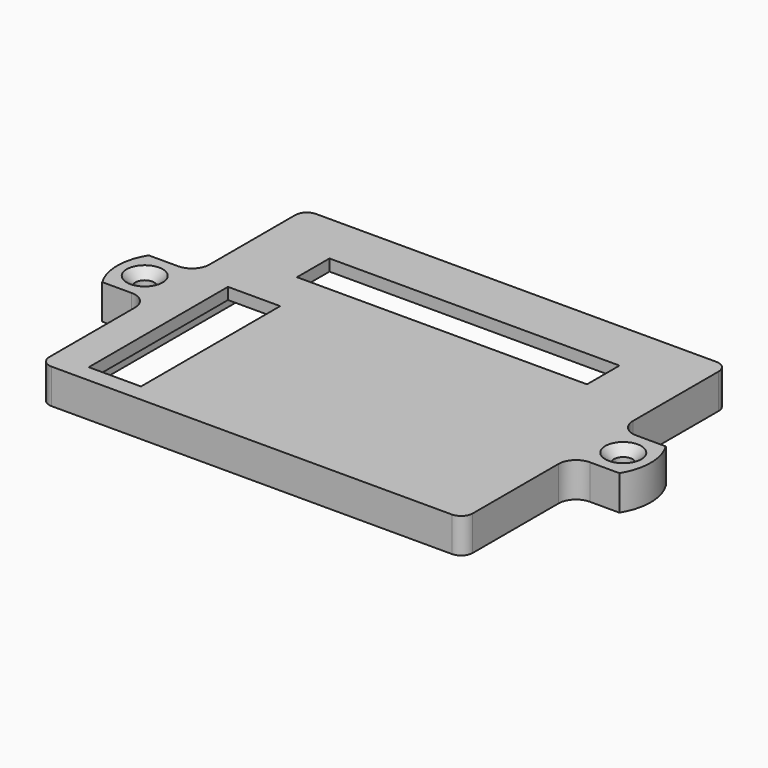
from build123d import *

# Parameters (mm, degrees)
F0_W     = 50
F0_H     = 7
F0_R     = 1.6
F1_DEPTH = 2
F2_DEPTH = 4
F3_SIZE  = 1.5
F4_R     = 3
F5_R     = 2


with BuildPart() as f1:
    # F0 (on Top) → F1 (new body)
    with BuildSketch(Plane.XY):
        with BuildLine():
            Line((-36.5, -5), (-36.5, 5))
            Line((-36.5, 5), (-44.577747, 5))
            ThreePointArc((-44.577747, 5), (-46, 0), (-44.577747, -5))
            Line((-44.577747, -5), (-36.5, -5))
        make_face()
        Polygon((-38.5, 1.587713), (-38.5, -1.587713), (-41.25, -3.175426), (-44, -1.587713), (-44, 1.587713), (-41.25, 3.175426), align=None, mode=Mode.SUBTRACT)
        Polygon((36.5, 28.5), (-36.5, 28.5), (-36.5, 5), (-36.5, -5), (-36.5, -28.5), (36.5, -28.5), (36.5, -5), (36.5, 5), align=None)
        Polygon((-34, 21.050253), (-34, 26), (-29.050253, 26), (29.050253, 26), (34, 26), (34, 21.050253), (34, -21.050253), (34, -26), (29.050253, -26), (-29.050253, -26), (-34, -26), (-34, -21.050253), align=None, mode=Mode.SUBTRACT)
        Polygon((29.050253, 26), (-29.050253, 26), (-34, 21.050253), (-34, -21.050253), (-30.5, -24.550253), (-30.5, 4.5), (-21.5, 4.5), (-21.5, -25.5), (-29.550253, -25.5), (-29.050253, -26), (29.050253, -26), (34, -21.050253), (34, 21.050253), align=None)
        with Locations((0, 16)):
            Rectangle(F0_W, F0_H, mode=Mode.SUBTRACT)
        with BuildLine():
            Line((44.577747, 5), (36.5, 5))
            Line((36.5, 5), (36.5, -5))
            Line((36.5, -5), (44.577747, -5))
            ThreePointArc((44.577747, -5), (46, 0), (44.577747, 5))
        make_face()
        Polygon((41.25, -3.175426), (38.5, -1.587713), (38.5, 1.587713), (41.25, 3.175426), (44, 1.587713), (44, -1.587713), align=None, mode=Mode.SUBTRACT)
        Polygon((-41.25, -3.175426), (-38.5, -1.587713), (-38.5, 1.587713), (-41.25, 3.175426), (-44, 1.587713), (-44, -1.587713), align=None)
        with Locations((-41.25, 0)):
            Circle(F0_R, mode=Mode.SUBTRACT)
        Polygon((38.5, 1.587713), (38.5, -1.587713), (41.25, -3.175426), (44, -1.587713), (44, 1.587713), (41.25, 3.175426), align=None)
        with Locations((41.25, 0)):
            Circle(F0_R, mode=Mode.SUBTRACT)
        Polygon((34, 26), (29.050253, 26), (34, 21.050253), align=None)
        Polygon((-29.050253, 26), (-34, 26), (-34, 21.050253), align=None)
        Polygon((-30.5, -24.550253), (-34, -21.050253), (-34, -26), (-29.050253, -26), (-29.550253, -25.5), (-30.5, -25.5), align=None)
        Polygon((34, -26), (34, -21.050253), (29.050253, -26), align=None)
    extrude(amount=F1_DEPTH)

    # F0 (on Top) → F2 (join)
    with BuildSketch(Plane.XY):
        Polygon((36.5, 28.5), (-36.5, 28.5), (-36.5, 5), (-36.5, -5), (-36.5, -28.5), (36.5, -28.5), (36.5, -5), (36.5, 5), align=None)
        Polygon((-34, 21.050253), (-34, 26), (-29.050253, 26), (29.050253, 26), (34, 26), (34, 21.050253), (34, -21.050253), (34, -26), (29.050253, -26), (-29.050253, -26), (-34, -26), (-34, -21.050253), align=None, mode=Mode.SUBTRACT)
        with BuildLine():
            Line((-36.5, -5), (-36.5, 5))
            Line((-36.5, 5), (-44.577747, 5))
            ThreePointArc((-44.577747, 5), (-46, 0), (-44.577747, -5))
            Line((-44.577747, -5), (-36.5, -5))
        make_face()
        Polygon((-38.5, 1.587713), (-38.5, -1.587713), (-41.25, -3.175426), (-44, -1.587713), (-44, 1.587713), (-41.25, 3.175426), align=None, mode=Mode.SUBTRACT)
        Polygon((-41.25, -3.175426), (-38.5, -1.587713), (-38.5, 1.587713), (-41.25, 3.175426), (-44, 1.587713), (-44, -1.587713), align=None)
        with Locations((-41.25, 0)):
            Circle(F0_R, mode=Mode.SUBTRACT)
        with BuildLine():
            Line((44.577747, 5), (36.5, 5))
            Line((36.5, 5), (36.5, -5))
            Line((36.5, -5), (44.577747, -5))
            ThreePointArc((44.577747, -5), (46, 0), (44.577747, 5))
        make_face()
        Polygon((41.25, -3.175426), (38.5, -1.587713), (38.5, 1.587713), (41.25, 3.175426), (44, 1.587713), (44, -1.587713), align=None, mode=Mode.SUBTRACT)
        Polygon((38.5, 1.587713), (38.5, -1.587713), (41.25, -3.175426), (44, -1.587713), (44, 1.587713), (41.25, 3.175426), align=None)
        with Locations((41.25, 0)):
            Circle(F0_R, mode=Mode.SUBTRACT)
    extrude(amount=-F2_DEPTH)

    # F3
    f3_edges = [f1.edges().sort_by_distance(p)[0] for p in [
        (-42.85, 0, 2),
        (39.65, 0, 2),
    ]]
    chamfer(f3_edges, length=F3_SIZE)

    # F4
    f4_edges = [f1.edges().sort_by_distance(p)[0] for p in [
        (-36.5, -5, -1),
        (-36.5, 5, -1),
        (36.5, -5, -1),
        (36.5, 5, -1),
    ]]
    fillet(f4_edges, radius=F4_R)

    # F5
    f5_edges = [f1.edges().sort_by_distance(p)[0] for p in [
        (36.5, 28.5, -1),
        (-36.5, 28.5, -1),
        (-36.5, -28.5, -1),
        (36.5, -28.5, -1),
    ]]
    fillet(f5_edges, radius=F5_R)


solid = f1.part
